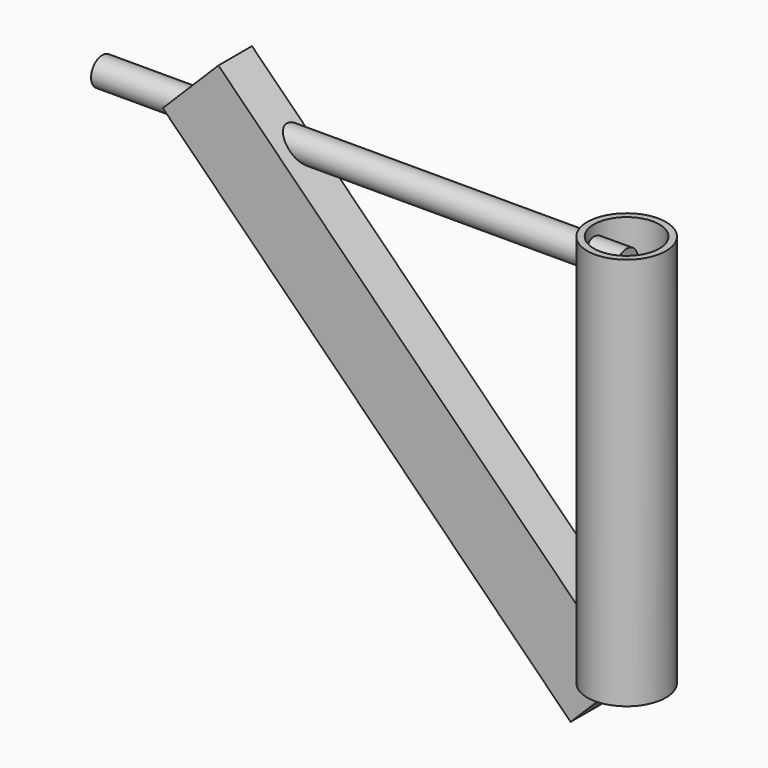
from build123d import *

# Parameters (mm, degrees)
F0_R     = 15
F1_DEPTH = 150
F2_T     = -2.5
F5_W     = 16
F5_H     = 30
F6_DEPTH = 220
F7_R     = 5.38096
F8_DEPTH = 200


with BuildPart() as f1:
    # F0 (on Top) → F1 (new body)
    with BuildSketch(Plane.XY):
        Circle(F0_R)
    extrude(amount=F1_DEPTH)

    # F2
    f2_openings = [f1.faces().sort_by_distance(p)[0] for p in [
        (0, 0, 150),
    ]]
    offset(amount=F2_T, openings=f2_openings)

    # F5 (on face) → F6 (join)
    with BuildSketch(Plane(origin=(0, 0, 0), x_dir=(0, -1, 0), z_dir=(-0.707107, 0, 0.707107))):
        with Locations((2.385001, -3.465989)):
            Rectangle(F5_W, F5_H)
    extrude(amount=F6_DEPTH)

    # F7 (on Right) → F8 (join)
    with BuildSketch(Plane.YZ):
        with Locations((0, 140.51652)):
            Circle(F7_R)
    extrude(amount=-F8_DEPTH)


solid = f1.part
